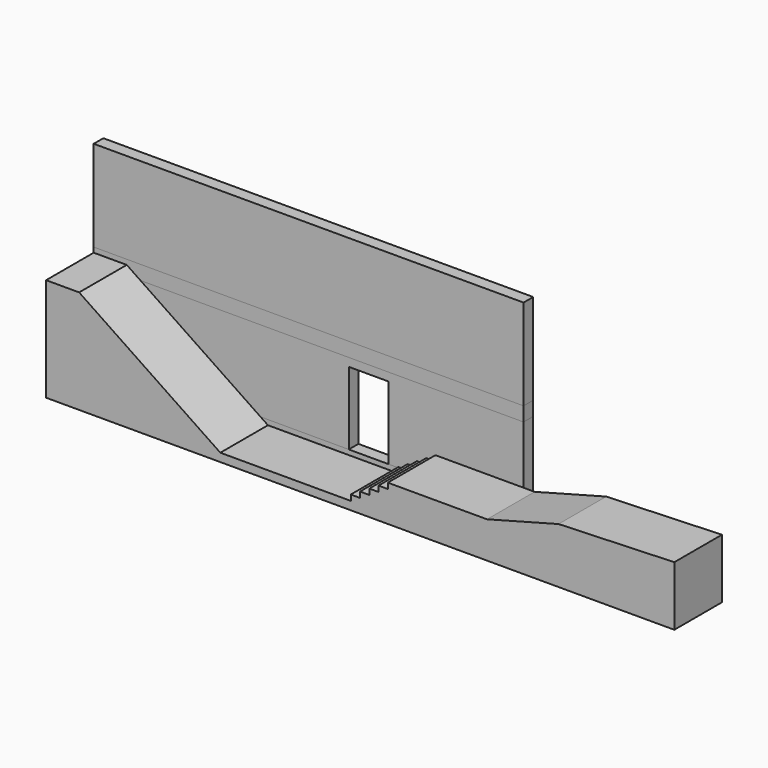
from build123d import *

# Parameters (mm, degrees)
F0_W      = 13000
F0_H      = 400
F1_DEPTH  = 365
F3_DEPTH  = 365
F4_W      = 13000
F4_H      = 430
F5_DEPTH  = 365
F6_W      = 13000
F6_H      = 2750
F7_DEPTH  = 365
F10_DEPTH = 1800


with BuildPart() as f1:
    # F0 (on Front) → F1 (new body)
    with BuildSketch(Plane.XZ):
        with Locations((6500, 200)):
            Rectangle(F0_W, F0_H)
    extrude(amount=F1_DEPTH)


with BuildPart() as f3:
    # F2 (on face) → F3 (new body)
    with BuildSketch(Plane.XZ.offset(365)):
        Polygon((0, 2850), (0, 400), (7715, 400), (7715, 2600), (8915, 2600), (8915, 400), (13000, 400), (13000, 2850), align=None)
    extrude(amount=-F3_DEPTH)


with BuildPart() as f5:
    # F4 (on Front) → F5 (new body)
    with BuildSketch(Plane.XZ):
        with Locations((6500, 3065)):
            Rectangle(F4_W, F4_H)
    extrude(amount=F5_DEPTH)


with BuildPart() as f7:
    # F6 (on Front) → F7 (new body)
    with BuildSketch(Plane.XZ):
        with Locations((6500, 4655)):
            Rectangle(F6_W, F6_H)
    extrude(amount=F7_DEPTH)


with BuildPart() as f10:
    # F9 (on face) → F10 (new body)
    with BuildSketch(Plane.XZ.offset(365)):
        Polygon((1000, 3130), (0, 3130), (0, 0), (19000, 0), (19000, 1800), (15500, 1677.777307), (13335, 1100), (10335, 1100), (10335, 930), (10055, 930), (10055, 760), (9775, 760), (9775, 590), (9495, 590), (9495, 420), (9215, 420), (9215, 250), (5269.775589, 250), align=None)
    extrude(amount=F10_DEPTH)


solid = Compound([f1.part, f3.part, f5.part, f7.part, f10.part])
